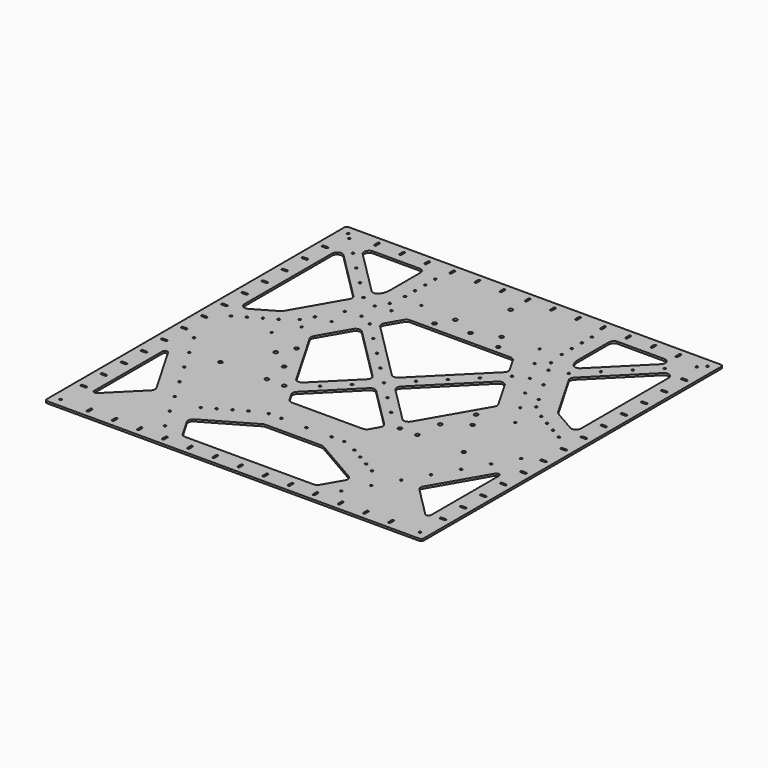
from build123d import *

# Parameters (mm, degrees)
F0_W      = 1500
F0_H      = 1500
F1_DEPTH  = 8
F2_R      = 7.5
F3_DEPTH  = 8.001
F5_DEPTH  = 8.001
F6_R      = 4.5
F7_DEPTH  = 8.001
F8_R      = 4.5
F9_DEPTH  = 8.001
F10_R     = 10
F11_R     = 20
F12_R     = 10
F13_R     = 50
F14_R     = 4.1
F15_DEPTH = 8.001


with BuildPart() as f1:
    # F0 (on Top) → F1 (new body)
    with BuildSketch(Plane.XY):
        Rectangle(F0_W, F0_H)
    extrude(amount=F1_DEPTH)

    # F2 (on face) → F3 (cut, through all)
    with BuildSketch(Plane.XY.offset(8)):
        with Locations((0, 630)):
            Circle(F2_R)
        with Locations((-484.1082007155, -208.5)):
            Circle(F2_R)
        with Locations((484.1082007155, -208.5)):
            Circle(F2_R)
        with Locations((-92, 470.0316403495)):
            Circle(F2_R)
        with Locations((92, 470.0316403495)):
            Circle(F2_R)
        with Locations((-127, 409.991150327)):
            Circle(F2_R)
        with Locations((127, 409.991150327)):
            Circle(F2_R)
        with Locations((-230.0749478413, -208.4808014441)):
            Circle(F2_R)
        with Locations((-357.0749478413, 11.4896511171)):
            Circle(F2_R)
        with Locations((-299.5715374564, -208.1901573229)):
            Circle(F2_R)
        with Locations((-391.5715374564, -48.8414830266)):
            Circle(F2_R)
        with Locations((391.5715374564, -48.8414830266)):
            Circle(F2_R)
        with Locations((299.5715374564, -208.1901573229)):
            Circle(F2_R)
        with Locations((230.0749478413, -208.4808014441)):
            Circle(F2_R)
        with Locations((357.0749478413, 11.4896511171)):
            Circle(F2_R)
        with Locations((0, 430)):
            Circle(F2_R)
        with Locations((310.9031199586, -108.5)):
            Circle(F2_R)
        with Locations((-310.9031199586, -108.5)):
            Circle(F2_R)
    extrude(amount=-F3_DEPTH, mode=Mode.SUBTRACT)

    # F4 (on face) → F5 (cut, through all)
    with BuildSketch(Plane.XY.offset(8)):
        Polygon((-374.6760648856, 670), (-627.5735931288, 670), (-397.6981580579, 440.1245649291), (-374.6760648856, 480), align=None)
        Polygon((397.6981580579, 440.1245649291), (627.5735931288, 670), (374.6760648856, 670), (374.6760648856, 480), align=None)
        Polygon((0, 42.4264068712), (257.5, 299.9264068712), (211.3119784648, 379.9264068712), (0, 379.9264068712), (-211.3119784648, 379.9264068712), (-257.5, 299.9264068712), align=None)
        Polygon((0, -42.4264068712), (-184.6092828496, -227.0356897208), (-152.6294373922, -282.4264068712), (0, -282.4264068712), (152.6294373922, -282.4264068712), (184.6092828496, -227.0356897208), align=None)
        Polygon((-315.6883994255, 0), (-215.6675682619, -173.2411613907), (-42.4264068712, 0), (-215.6675682619, 173.2411613907), (-288.5582854123, 246.1318785411), (-373.1754955849, 99.5705713275), align=None)
        Polygon((288.5582854123, 246.1318785411), (215.6675682619, 173.2411613907), (42.4264068712, 0), (215.6675682619, -173.2411613907), (315.6883994255, 0), (373.1754955849, 99.5705713275), align=None)
        Polygon((670, 108.4839396907), (670, 627.5735931288), (428.7564434702, 386.330036599), (548.7564434702, 178.4839396907), align=None)
        Polygon((-523.5898384862, -481.163431615), (-670, -227.5735931288), (-670, -627.5735931288), align=None)
        Polygon((670, -227.5735931288), (523.5898384862, -481.163431615), (670, -627.5735931288), align=None)
        Polygon((117.1539030917, -450), (0, -450), (-117.1539030917, -450), (-325, -570), (-267.264973081, -670), (0, -670), (267.264973081, -670), (325, -570), align=None)
        Polygon((-670, 627.5735931288), (-670, 108.4839396907), (-548.7564434702, 178.4839396907), (-428.7564434702, 386.330036599), align=None)
    extrude(amount=-F5_DEPTH, mode=Mode.SUBTRACT)

    # F6 (on face) → F7 (cut, through all)
    with BuildSketch(Plane.XY.offset(8)):
        with BuildLine():
            ThreePointArc((-604.2, 707), (-600, 702.8), (-595.8, 707))
            Line((-595.8, 707), (-595.8, 723))
            ThreePointArc((-595.8, 723), (-600, 727.2), (-604.2, 723))
            Line((-604.2, 723), (-604.2, 707))
        make_face()
        with BuildLine():
            Line((-504.2, 723), (-504.2, 707))
            ThreePointArc((-504.2, 707), (-500, 702.8), (-495.8, 707))
            Line((-495.8, 707), (-495.8, 723))
            ThreePointArc((-495.8, 723), (-500, 727.2), (-504.2, 723))
        make_face()
        with BuildLine():
            Line((-404.2, 723), (-404.2, 707))
            ThreePointArc((-404.2, 707), (-400, 702.8), (-395.8, 707))
            Line((-395.8, 707), (-395.8, 723))
            ThreePointArc((-395.8, 723), (-400, 727.2), (-404.2, 723))
        make_face()
        with BuildLine():
            Line((-304.2, 723), (-304.2, 707))
            ThreePointArc((-304.2, 707), (-300, 702.8), (-295.8, 707))
            Line((-295.8, 707), (-295.8, 723))
            ThreePointArc((-295.8, 723), (-300, 727.2), (-304.2, 723))
        make_face()
        with BuildLine():
            Line((-204.2, 723), (-204.2, 707))
            ThreePointArc((-204.2, 707), (-200, 702.8), (-195.8, 707))
            Line((-195.8, 707), (-195.8, 723))
            ThreePointArc((-195.8, 723), (-200, 727.2), (-204.2, 723))
        make_face()
        with BuildLine():
            Line((-104.2, 723), (-104.2, 707))
            ThreePointArc((-104.2, 707), (-100, 702.8), (-95.8, 707))
            Line((-95.8, 707), (-95.8, 723))
            ThreePointArc((-95.8, 723), (-100, 727.2), (-104.2, 723))
        make_face()
        with BuildLine():
            Line((-4.2, 723), (-4.2, 707))
            ThreePointArc((-4.2, 707), (0, 702.8), (4.2, 707))
            Line((4.2, 707), (4.2, 723))
            ThreePointArc((4.2, 723), (0, 727.2), (-4.2, 723))
        make_face()
        with BuildLine():
            Line((95.8, 723), (95.8, 707))
            ThreePointArc((95.8, 707), (100, 702.8), (104.2, 707))
            Line((104.2, 707), (104.2, 723))
            ThreePointArc((104.2, 723), (100, 727.2), (95.8, 723))
        make_face()
        with BuildLine():
            Line((195.8, 723), (195.8, 707))
            ThreePointArc((195.8, 707), (200, 702.8), (204.2, 707))
            Line((204.2, 707), (204.2, 723))
            ThreePointArc((204.2, 723), (200, 727.2), (195.8, 723))
        make_face()
        with BuildLine():
            Line((295.8, 723), (295.8, 707))
            ThreePointArc((295.8, 707), (300, 702.8), (304.2, 707))
            Line((304.2, 707), (304.2, 723))
            ThreePointArc((304.2, 723), (300, 727.2), (295.8, 723))
        make_face()
        with BuildLine():
            Line((395.8, 723), (395.8, 707))
            ThreePointArc((395.8, 707), (400, 702.8), (404.2, 707))
            Line((404.2, 707), (404.2, 723))
            ThreePointArc((404.2, 723), (400, 727.2), (395.8, 723))
        make_face()
        with BuildLine():
            Line((495.8, 723), (495.8, 707))
            ThreePointArc((495.8, 707), (500, 702.8), (504.2, 707))
            Line((504.2, 707), (504.2, 723))
            ThreePointArc((504.2, 723), (500, 727.2), (495.8, 723))
        make_face()
        with BuildLine():
            Line((595.8, 723), (595.8, 707))
            ThreePointArc((595.8, 707), (600, 702.8), (604.2, 707))
            Line((604.2, 707), (604.2, 723))
            ThreePointArc((604.2, 723), (600, 727.2), (595.8, 723))
        make_face()
        with BuildLine():
            ThreePointArc((-304.2, -723), (-300, -727.2), (-295.8, -723))
            Line((-295.8, -723), (-295.8, -707))
            ThreePointArc((-295.8, -707), (-300, -702.8), (-304.2, -707))
            Line((-304.2, -707), (-304.2, -723))
        make_face()
        with BuildLine():
            ThreePointArc((-504.2, -723), (-500, -727.2), (-495.8, -723))
            Line((-495.8, -723), (-495.8, -707))
            ThreePointArc((-495.8, -707), (-500, -702.8), (-504.2, -707))
            Line((-504.2, -707), (-504.2, -723))
        make_face()
        with BuildLine():
            Line((304.2, -723), (304.2, -707))
            ThreePointArc((304.2, -707), (300, -702.8), (295.8, -707))
            Line((295.8, -707), (295.8, -723))
            ThreePointArc((295.8, -723), (300, -727.2), (304.2, -723))
        make_face()
        with BuildLine():
            ThreePointArc((-595.8, -707), (-600, -702.8), (-604.2, -707))
            Line((-604.2, -707), (-604.2, -723))
            ThreePointArc((-604.2, -723), (-600, -727.2), (-595.8, -723))
            Line((-595.8, -723), (-595.8, -707))
        make_face()
        with BuildLine():
            ThreePointArc((4.2, -707), (0, -702.8), (-4.2, -707))
            Line((-4.2, -707), (-4.2, -723))
            ThreePointArc((-4.2, -723), (0, -727.2), (4.2, -723))
            Line((4.2, -723), (4.2, -707))
        make_face()
        with BuildLine():
            ThreePointArc((95.8, -723), (100, -727.2), (104.2, -723))
            Line((104.2, -723), (104.2, -707))
            ThreePointArc((104.2, -707), (100, -702.8), (95.8, -707))
            Line((95.8, -707), (95.8, -723))
        make_face()
        with BuildLine():
            ThreePointArc((-204.2, -723), (-200, -727.2), (-195.8, -723))
            Line((-195.8, -723), (-195.8, -707))
            ThreePointArc((-195.8, -707), (-200, -702.8), (-204.2, -707))
            Line((-204.2, -707), (-204.2, -723))
        make_face()
        with BuildLine():
            ThreePointArc((404.2, -707), (400, -702.8), (395.8, -707))
            Line((395.8, -707), (395.8, -723))
            ThreePointArc((395.8, -723), (400, -727.2), (404.2, -723))
            Line((404.2, -723), (404.2, -707))
        make_face()
        with BuildLine():
            ThreePointArc((495.8, -723), (500, -727.2), (504.2, -723))
            Line((504.2, -723), (504.2, -707))
            ThreePointArc((504.2, -707), (500, -702.8), (495.8, -707))
            Line((495.8, -707), (495.8, -723))
        make_face()
        with BuildLine():
            Line((-395.8, -723), (-395.8, -707))
            ThreePointArc((-395.8, -707), (-400, -702.8), (-404.2, -707))
            Line((-404.2, -707), (-404.2, -723))
            ThreePointArc((-404.2, -723), (-400, -727.2), (-395.8, -723))
        make_face()
        with BuildLine():
            ThreePointArc((595.8, -723), (600, -727.2), (604.2, -723))
            Line((604.2, -723), (604.2, -707))
            ThreePointArc((604.2, -707), (600, -702.8), (595.8, -707))
            Line((595.8, -707), (595.8, -723))
        make_face()
        with BuildLine():
            Line((204.2, -723), (204.2, -707))
            ThreePointArc((204.2, -707), (200, -702.8), (195.8, -707))
            Line((195.8, -707), (195.8, -723))
            ThreePointArc((195.8, -723), (200, -727.2), (204.2, -723))
        make_face()
        with BuildLine():
            Line((-95.8, -723), (-95.8, -707))
            ThreePointArc((-95.8, -707), (-100, -702.8), (-104.2, -707))
            Line((-104.2, -707), (-104.2, -723))
            ThreePointArc((-104.2, -723), (-100, -727.2), (-95.8, -723))
        make_face()
        with BuildLine():
            Line((-723, 595.8), (-707, 595.8))
            ThreePointArc((-707, 595.8), (-702.8, 600), (-707, 604.2))
            Line((-707, 604.2), (-723, 604.2))
            ThreePointArc((-723, 604.2), (-727.2, 600), (-723, 595.8))
        make_face()
        with BuildLine():
            ThreePointArc((-723, 504.2), (-727.2, 500), (-723, 495.8))
            Line((-723, 495.8), (-707, 495.8))
            ThreePointArc((-707, 495.8), (-702.8, 500), (-707, 504.2))
            Line((-707, 504.2), (-723, 504.2))
        make_face()
        with BuildLine():
            ThreePointArc((-723, -95.8), (-727.2, -100), (-723, -104.2))
            Line((-723, -104.2), (-707, -104.2))
            ThreePointArc((-707, -104.2), (-702.8, -100), (-707, -95.8))
            Line((-707, -95.8), (-723, -95.8))
        make_face()
        with BuildLine():
            ThreePointArc((-723, 304.2), (-727.2, 300), (-723, 295.8))
            Line((-723, 295.8), (-707, 295.8))
            ThreePointArc((-707, 295.8), (-702.8, 300), (-707, 304.2))
            Line((-707, 304.2), (-723, 304.2))
        make_face()
        with BuildLine():
            ThreePointArc((-707, 395.8), (-702.8, 400), (-707, 404.2))
            Line((-707, 404.2), (-723, 404.2))
            ThreePointArc((-723, 404.2), (-727.2, 400), (-723, 395.8))
            Line((-723, 395.8), (-707, 395.8))
        make_face()
        with BuildLine():
            ThreePointArc((-723, -495.8), (-727.2, -500), (-723, -504.2))
            Line((-723, -504.2), (-707, -504.2))
            ThreePointArc((-707, -504.2), (-702.8, -500), (-707, -495.8))
            Line((-707, -495.8), (-723, -495.8))
        make_face()
        with BuildLine():
            ThreePointArc((-707, -604.2), (-702.8, -600), (-707, -595.8))
            Line((-707, -595.8), (-723, -595.8))
            ThreePointArc((-723, -595.8), (-727.2, -600), (-723, -604.2))
            Line((-723, -604.2), (-707, -604.2))
        make_face()
        with BuildLine():
            ThreePointArc((-707, -204.2), (-702.8, -200), (-707, -195.8))
            Line((-707, -195.8), (-723, -195.8))
            ThreePointArc((-723, -195.8), (-727.2, -200), (-723, -204.2))
            Line((-723, -204.2), (-707, -204.2))
        make_face()
        with BuildLine():
            ThreePointArc((-707, 195.8), (-702.8, 200), (-707, 204.2))
            Line((-707, 204.2), (-723, 204.2))
            ThreePointArc((-723, 204.2), (-727.2, 200), (-723, 195.8))
            Line((-723, 195.8), (-707, 195.8))
        make_face()
        with BuildLine():
            ThreePointArc((-707, -304.2), (-702.8, -300), (-707, -295.8))
            Line((-707, -295.8), (-723, -295.8))
            ThreePointArc((-723, -295.8), (-727.2, -300), (-723, -304.2))
            Line((-723, -304.2), (-707, -304.2))
        make_face()
        with BuildLine():
            ThreePointArc((-707, 95.8), (-702.8, 100), (-707, 104.2))
            Line((-707, 104.2), (-723, 104.2))
            ThreePointArc((-723, 104.2), (-727.2, 100), (-723, 95.8))
            Line((-723, 95.8), (-707, 95.8))
        make_face()
        with BuildLine():
            ThreePointArc((-707, -404.2), (-702.8, -400), (-707, -395.8))
            Line((-707, -395.8), (-723, -395.8))
            ThreePointArc((-723, -395.8), (-727.2, -400), (-723, -404.2))
            Line((-723, -404.2), (-707, -404.2))
        make_face()
        with BuildLine():
            ThreePointArc((-707, -4.2), (-702.8, 0), (-707, 4.2))
            Line((-707, 4.2), (-723, 4.2))
            ThreePointArc((-723, 4.2), (-727.2, 0), (-723, -4.2))
            Line((-723, -4.2), (-707, -4.2))
        make_face()
        with BuildLine():
            Line((707, -304.2), (723, -304.2))
            ThreePointArc((723, -304.2), (727.2, -300), (723, -295.8))
            Line((723, -295.8), (707, -295.8))
            ThreePointArc((707, -295.8), (702.8, -300), (707, -304.2))
        make_face()
        with BuildLine():
            Line((707, -4.2), (723, -4.2))
            ThreePointArc((723, -4.2), (727.2, 0), (723, 4.2))
            Line((723, 4.2), (707, 4.2))
            ThreePointArc((707, 4.2), (702.8, 0), (707, -4.2))
        make_face()
        with BuildLine():
            Line((723, 604.2), (707, 604.2))
            ThreePointArc((707, 604.2), (702.8, 600), (707, 595.8))
            Line((707, 595.8), (723, 595.8))
            ThreePointArc((723, 595.8), (727.2, 600), (723, 604.2))
        make_face()
        with BuildLine():
            Line((707, -104.2), (723, -104.2))
            ThreePointArc((723, -104.2), (727.2, -100), (723, -95.8))
            Line((723, -95.8), (707, -95.8))
            ThreePointArc((707, -95.8), (702.8, -100), (707, -104.2))
        make_face()
        with BuildLine():
            ThreePointArc((707, 104.2), (702.8, 100), (707, 95.8))
            Line((707, 95.8), (723, 95.8))
            ThreePointArc((723, 95.8), (727.2, 100), (723, 104.2))
            Line((723, 104.2), (707, 104.2))
        make_face()
        with BuildLine():
            ThreePointArc((707, -195.8), (702.8, -200), (707, -204.2))
            Line((707, -204.2), (723, -204.2))
            ThreePointArc((723, -204.2), (727.2, -200), (723, -195.8))
            Line((723, -195.8), (707, -195.8))
        make_face()
        with BuildLine():
            Line((723, 304.2), (707, 304.2))
            ThreePointArc((707, 304.2), (702.8, 300), (707, 295.8))
            Line((707, 295.8), (723, 295.8))
            ThreePointArc((723, 295.8), (727.2, 300), (723, 304.2))
        make_face()
        with BuildLine():
            Line((723, -395.8), (707, -395.8))
            ThreePointArc((707, -395.8), (702.8, -400), (707, -404.2))
            Line((707, -404.2), (723, -404.2))
            ThreePointArc((723, -404.2), (727.2, -400), (723, -395.8))
        make_face()
        with BuildLine():
            Line((723, 504.2), (707, 504.2))
            ThreePointArc((707, 504.2), (702.8, 500), (707, 495.8))
            Line((707, 495.8), (723, 495.8))
            ThreePointArc((723, 495.8), (727.2, 500), (723, 504.2))
        make_face()
        with BuildLine():
            Line((723, 204.2), (707, 204.2))
            ThreePointArc((707, 204.2), (702.8, 200), (707, 195.8))
            Line((707, 195.8), (723, 195.8))
            ThreePointArc((723, 195.8), (727.2, 200), (723, 204.2))
        make_face()
        with BuildLine():
            Line((707, 395.8), (723, 395.8))
            ThreePointArc((723, 395.8), (727.2, 400), (723, 404.2))
            Line((723, 404.2), (707, 404.2))
            ThreePointArc((707, 404.2), (702.8, 400), (707, 395.8))
        make_face()
        with BuildLine():
            Line((723, -595.8), (707, -595.8))
            ThreePointArc((707, -595.8), (702.8, -600), (707, -604.2))
            Line((707, -604.2), (723, -604.2))
            ThreePointArc((723, -604.2), (727.2, -600), (723, -595.8))
        make_face()
        with BuildLine():
            Line((707, -504.2), (723, -504.2))
            ThreePointArc((723, -504.2), (727.2, -500), (723, -495.8))
            Line((723, -495.8), (707, -495.8))
            ThreePointArc((707, -495.8), (702.8, -500), (707, -504.2))
        make_face()
        with Locations((-715, 715)):
            Circle(F6_R)
        with Locations((715, 715)):
            Circle(F6_R)
        with Locations((-715, -715)):
            Circle(F6_R)
        with Locations((715, -715)):
            Circle(F6_R)
    extrude(amount=-F7_DEPTH, mode=Mode.SUBTRACT)

    # F8 (on face) → F9 (cut, through all)
    with BuildSketch(Plane.XY.offset(8)):
        with Locations((311.7999814952, 644.4301434281)):
            Circle(F8_R)
        with Locations((311.7999814952, 544.4301434281)):
            Circle(F8_R)
        with Locations((345.5499814952, 385.9734286726)):
            Circle(F8_R)
        with Locations((395.5499814952, 299.3708882942)):
            Circle(F8_R)
        with Locations((445.5499814952, 212.7683479158)):
            Circle(F8_R)
        with Locations((565.9025218736, 104.3116331603)):
            Circle(F8_R)
        with Locations((652.5050622521, 54.3116331603)):
            Circle(F8_R)
        with Locations((311.7999814952, 494.4301434281)):
            Circle(F8_R)
        with Locations((522.6012516844, 129.3116331603)):
            Circle(F8_R)
        with Locations((311.7999814952, 594.4301434281)):
            Circle(F8_R)
        with Locations((609.2037920629, 79.3116331603)):
            Circle(F8_R)
        with Locations((320.5499814952, 429.2746988619)):
            Circle(F8_R)
        with Locations((-522.6012516844, 129.3116331603)):
            Circle(F8_R)
        with Locations((-565.9025218736, 104.3116331603)):
            Circle(F8_R)
        with Locations((-609.2037920629, 79.3116331603)):
            Circle(F8_R)
        with Locations((-652.5050622521, 54.3116331603)):
            Circle(F8_R)
        with Locations((-311.7999814952, 544.4301434281)):
            Circle(F8_R)
        with Locations((-311.7999814952, 594.4301434281)):
            Circle(F8_R)
        with Locations((-311.7999814952, 644.4301434281)):
            Circle(F8_R)
        with Locations((-311.7999814952, 494.4301434281)):
            Circle(F8_R)
        with Locations((-320.5499814952, 429.2746988619)):
            Circle(F8_R)
        with Locations((-345.5499814952, 385.9734286726)):
            Circle(F8_R)
        with Locations((-395.5499814952, 299.3708882942)):
            Circle(F8_R)
        with Locations((-445.5499814952, 212.7683479158)):
            Circle(F8_R)
        with Locations((210.8012701892, -410.7417765884)):
            Circle(F8_R)
        with Locations((297.4038105677, -460.7417765884)):
            Circle(F8_R)
        with Locations((340.7050807569, -485.7417765884)):
            Circle(F8_R)
        with Locations((254.1025403784, -435.7417765884)):
            Circle(F8_R)
        with Locations((100, -385.7417765884)):
            Circle(F8_R)
        with Locations((-150, -385.7417765884)):
            Circle(F8_R)
        with Locations((0, -385.7417765884)):
            Circle(F8_R)
        with Locations((-297.4038105677, -460.7417765884)):
            Circle(F8_R)
        with Locations((-340.7050807569, -485.7417765884)):
            Circle(F8_R)
        with Locations((-210.8012701892, -410.7417765884)):
            Circle(F8_R)
        with Locations((-254.1025403784, -435.7417765884)):
            Circle(F8_R)
        with Locations((-100, -385.7417765884)):
            Circle(F8_R)
        with Locations((470.5499814952, 169.4670777265)):
            Circle(F8_R)
        with Locations((150, -385.7417765884)):
            Circle(F8_R)
        with Locations((-470.5499814952, 169.4670777265)):
            Circle(F8_R)
        with Locations((-650.8172400786, -131.5444279957)):
            Circle(F8_R)
        with Locations((-600.8172400786, -218.1469683742)):
            Circle(F8_R)
        with Locations((-550.8172400786, -304.7495087526)):
            Circle(F8_R)
        with Locations((-500.8172400786, -391.3520491311)):
            Circle(F8_R)
        with Locations((-450.8172400786, -477.9545895095)):
            Circle(F8_R)
        with Locations((-400.8172400786, -564.5571298879)):
            Circle(F8_R)
        with Locations((-350.8172400786, -651.1596702664)):
            Circle(F8_R)
        with Locations((691.4213562373, 691.4213562373)):
            Circle(F8_R)
        with Locations((620.7106781187, 620.7106781187)):
            Circle(F8_R)
        with Locations((550, 550)):
            Circle(F8_R)
        with Locations((479.2893218813, 479.2893218813)):
            Circle(F8_R)
        with Locations((408.5786437627, 408.5786437627)):
            Circle(F8_R)
        with Locations((-408.5786437627, 408.5786437627)):
            Circle(F8_R)
        with Locations((-550, 550)):
            Circle(F8_R)
        with Locations((-479.2893218813, 479.2893218813)):
            Circle(F8_R)
        with Locations((-620.7106781187, 620.7106781187)):
            Circle(F8_R)
        with Locations((-691.4213562373, 691.4213562373)):
            Circle(F8_R)
        with Locations((600.8172400786, -218.1469683742)):
            Circle(F8_R)
        with Locations((550.8172400786, -304.7495087526)):
            Circle(F8_R)
        with Locations((650.8172400786, -131.5444279957)):
            Circle(F8_R)
        with Locations((450.8172400786, -477.9545895095)):
            Circle(F8_R)
        with Locations((500.8172400786, -391.3520491311)):
            Circle(F8_R)
        with Locations((400.8172400786, -564.5571298879)):
            Circle(F8_R)
        with Locations((350.8172400786, -651.1596702664)):
            Circle(F8_R)
        Circle(F8_R)
        with Locations((-70.7106781187, 70.7106781187)):
            Circle(F8_R)
        with Locations((-141.4213562373, 141.4213562373)):
            Circle(F8_R)
        with Locations((-212.132034356, 212.132034356)):
            Circle(F8_R)
        with Locations((-282.8427124746, 282.8427124746)):
            Circle(F8_R)
        with Locations((70.7106781187, 70.7106781187)):
            Circle(F8_R)
        with Locations((141.4213562373, 141.4213562373)):
            Circle(F8_R)
        with Locations((212.132034356, 212.132034356)):
            Circle(F8_R)
        with Locations((282.8427124746, 282.8427124746)):
            Circle(F8_R)
        with Locations((-70.7106781187, -70.7106781187)):
            Circle(F8_R)
        with Locations((-141.4213562373, -141.4213562373)):
            Circle(F8_R)
        with Locations((70.7106781187, -70.7106781187)):
            Circle(F8_R)
        with Locations((141.4213562373, -141.4213562373)):
            Circle(F8_R)
    extrude(amount=-F9_DEPTH, mode=Mode.SUBTRACT)

    # F10
    f10_edges = [f1.edges().sort_by_distance(p)[0] for p in [
        (-750, 750, 4),
        (750, 750, 4),
        (750, -750, 4),
        (-750, -750, 4),
    ]]
    fillet(f10_edges, radius=F10_R)

    # F11
    f11_edges = [f1.edges().sort_by_distance(p)[0] for p in [
        (-627.573593, 670, 4),
        (-374.676065, 670, 4),
        (-397.698158, 440.124565, 4),
        (627.573593, 670, 4),
        (374.676065, 670, 4),
        (397.698158, 440.124565, 4),
        (-670, 627.573593, 4),
        (-428.756443, 386.330037, 4),
        (-548.756443, 178.48394, 4),
        (-670, 108.48394, 4),
        (670, 627.573593, 4),
        (428.756443, 386.330037, 4),
        (548.756443, 178.48394, 4),
        (670, 108.48394, 4),
        (-211.311978, 379.926407, 4),
        (211.311978, 379.926407, 4),
        (257.5, 299.926407, 4),
        (0, 42.426407, 4),
        (-257.5, 299.926407, 4),
        (-288.558285, 246.131879, 4),
        (-373.175496, 99.570571, 4),
        (-42.426407, 0, 4),
        (-215.667568, -173.241161, 4),
        (288.558285, 246.131879, 4),
        (373.175496, 99.570571, 4),
        (215.667568, -173.241161, 4),
        (42.426407, 0, 4),
        (0, -42.426407, 4),
        (184.609283, -227.03569, 4),
        (152.629437, -282.426407, 4),
        (-152.629437, -282.426407, 4),
        (-184.609283, -227.03569, 4),
        (-523.589838, -481.163432, 4),
        (-117.153903, -450, 4),
        (117.153903, -450, 4),
        (325, -570, 4),
        (267.264973, -670, 4),
        (-267.264973, -670, 4),
        (-325, -570, 4),
        (523.589838, -481.163432, 4),
    ]]
    fillet(f11_edges, radius=F11_R)

    # F12
    f12_edges = [f1.edges().sort_by_distance(p)[0] for p in [
        (-670, -227.573593, 4),
        (-670, -627.573593, 4),
        (670, -227.573593, 4),
        (670, -627.573593, 4),
    ]]
    fillet(f12_edges, radius=F12_R)

    # F13
    f13_edges = [f1.edges().sort_by_distance(p)[0] for p in [
        (-374.676065, 480, 4),
        (374.676065, 480, 4),
    ]]
    fillet(f13_edges, radius=F13_R)

    # F14 (on face) → F15 (cut, through all)
    with BuildSketch(Plane.XY.offset(8)):
        with Locations((-235, 480.0316403495)):
            Circle(F14_R)
        with Locations((-285, 393.429099971)):
            Circle(F14_R)
        with Locations((-335, 306.8265595926)):
            Circle(F14_R)
        with Locations((335, 306.8265595926)):
            Circle(F14_R)
        with Locations((285, 393.429099971)):
            Circle(F14_R)
        with Locations((235, 480.0316403495)):
            Circle(F14_R)
        with Locations((-385, 220.2240192142)):
            Circle(F14_R)
        with Locations((385, 220.2240192142)):
            Circle(F14_R)
        with Locations((-435, 133.6214788357)):
            Circle(F14_R)
        with Locations((435, 133.6214788357)):
            Circle(F14_R)
        with Locations((-485, 47.0189384573)):
            Circle(F14_R)
        with Locations((485, 47.0189384573)):
            Circle(F14_R)
    extrude(amount=-F15_DEPTH, mode=Mode.SUBTRACT)


solid = f1.part
